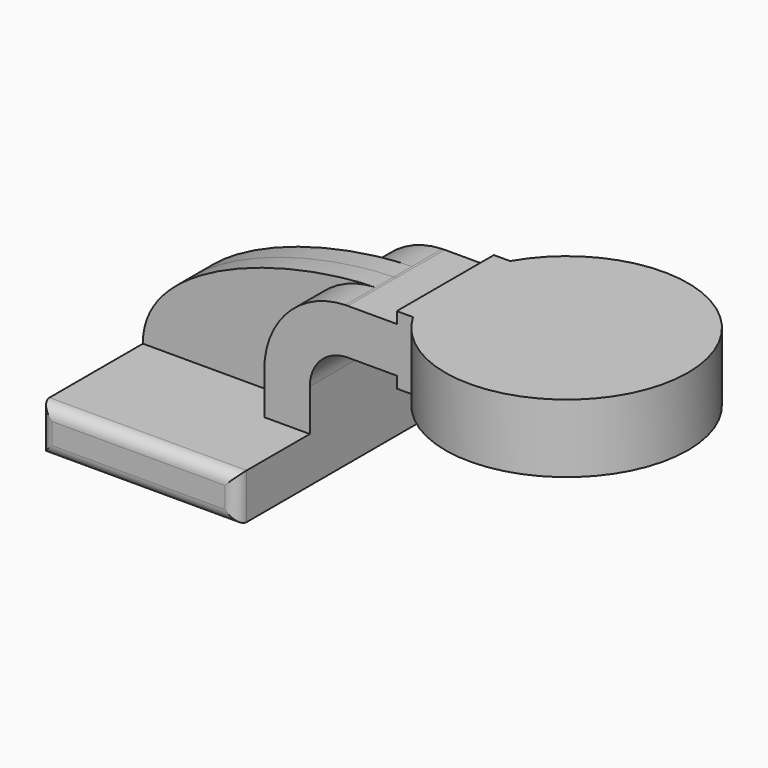
from build123d import *

# Parameters (mm, degrees)
F1_DEPTH = 63.5
F2_DEPTH = 25.4
F3_DEPTH = 9.525
F5_R     = 5.08


with BuildPart() as f1:
    # F0 (on Front) → F1 (new body, symmetric)
    with BuildSketch(Plane.XZ):
        Polygon((41.275, -9.525), (41.275, 9.525), (22.225, 9.525), (-41.275, 9.525), (-41.275, -9.525), align=None)
    extrude(amount=F1_DEPTH, both=True)

    # F0 (on Front) → F2 (join, symmetric)
    with BuildSketch(Plane.XZ):
        with BuildLine():
            Line((22.225, 9.525), (41.275, 9.525))
            Line((41.275, 9.525), (41.275, 27.0002))
            ThreePointArc((41.275, 27.0002), (45.92468, 38.22552), (57.15, 42.8752))
            Line((57.15, 42.8752), (77.695822, 42.8752))
            Line((77.695822, 42.8752), (77.695822, 61.9252))
            Line((77.695822, 61.9252), (57.15, 61.9252))
            add(Edge.make_bspline(
                [(56.136897, 61.910503), (56.476094, 61.9168), (56.813813, 61.921701), (57.15, 61.9252)],
                knots=[110.545926, 110.545926, 110.545926, 110.545926, 111.504536, 111.504536, 111.504536, 111.504536], degree=3))
            ThreePointArc((56.136897, 61.910503), (32.09867, 51.335082), (22.225, 27.0002))
            Line((22.225, 27.0002), (22.225, 9.525))
        make_face()
        Polygon((77.695822, 61.9252), (77.695822, 42.8752), (77.695822, 38.1), (128.495822, 38.1), (128.495822, 66.675), (77.695822, 66.675), align=None)
    extrude(amount=F2_DEPTH, both=True)

    # F0 (on Front) → F3 (join, symmetric)
    with BuildSketch(Plane.XZ):
        with BuildLine():
            Line((-41.275, 9.525), (22.225, 9.525))
            Line((22.225, 9.525), (22.225, 27.0002))
            ThreePointArc((22.225, 27.0002), (32.09867, 51.335082), (56.136897, 61.910503))
            add(Edge.make_bspline(
                [(-41.275, 9.525), (-41.7684, 41.876246), (17.020968, 61.184278), (56.136897, 61.910503)],
                knots=[0, 0, 0, 0, 110.545926, 110.545926, 110.545926, 110.545926], degree=3))
        make_face()
    extrude(amount=F3_DEPTH, both=True)

    # F0 (on Front) → F4 (revolve)
    with BuildSketch(Plane.XZ):
        Polygon((77.695822, 61.9252), (77.695822, 42.8752), (77.695822, 38.1), (128.495822, 38.1), (128.495822, 66.675), (77.695822, 66.675), align=None)
    revolve(axis=Axis((128.495822, 0, 52.3875), (0, 0, 1)))

    # F5
    f5_edges = [f1.edges().sort_by_distance(p)[0] for p in [
        (41.275, 63.5, 0),
        (0, 63.5, 9.525),
        (-41.275, 63.5, 0),
        (0, 63.5, -9.525),
        (41.275, -63.5, 0),
        (0, -63.5, 9.525),
        (-41.275, -63.5, 0),
        (0, -63.5, -9.525),
    ]]
    fillet(f5_edges, radius=F5_R)


solid = f1.part
